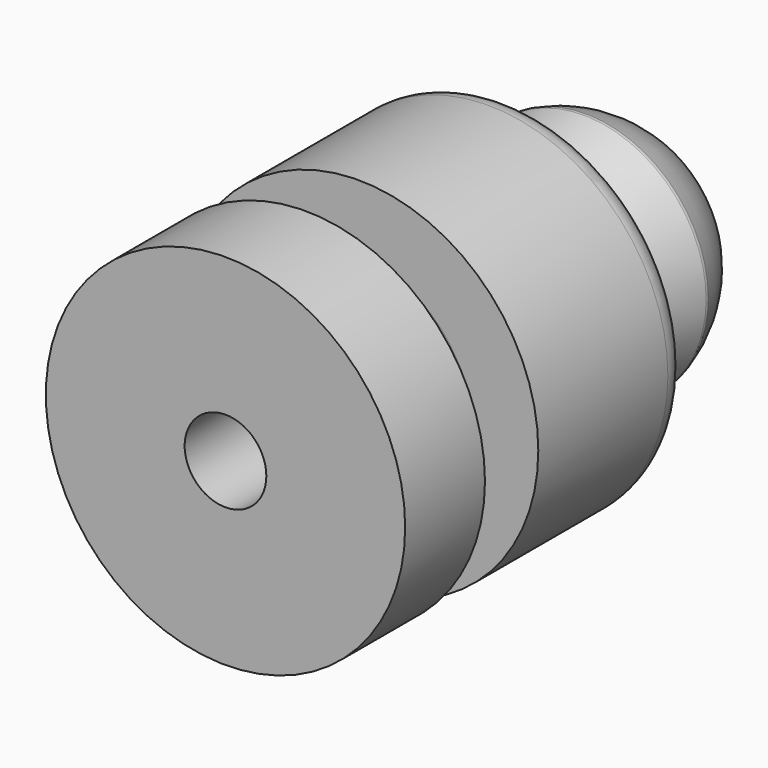
from build123d import *

# Parameters (mm, degrees)
F2_R     = 5
F3_R     = 2
F4_R     = 7.5
F5_DEPTH = 120
F6_R     = 1


with BuildPart() as f1:
    # F0 (on Top) → F1 (revolve)
    with BuildSketch(Plane.XY):
        with BuildLine():
            Line((0, 100), (0, 0))
            Line((0, 0), (33, 0))
            Line((33, 0), (33, 18.31956))
            Line((33, 18.31956), (20.559253, 18.31956))
            ThreePointArc((20.559253, 18.31956), (14.437617, 24.441197), (20.559253, 30.562833))
            Line((20.559253, 30.562833), (33, 30.562833))
            Line((33, 30.562833), (33, 65.317936))
            Line((33, 65.317936), (18, 65.317936))
            Line((18, 65.317936), (22.589619, 82.446628))
            ThreePointArc((22.589619, 82.446628), (14.303948, 95.095807), (0, 100))
        make_face()
    revolve(axis=Axis((0, 50, 0), (0, -1, 0)))

    # F2
    f2_edges = [f1.edges().sort_by_distance(p)[0] for p in [
        (-33, 65.317936, 0),
    ]]
    fillet(f2_edges, radius=F2_R)

    # F3
    f3_edges = [f1.edges().sort_by_distance(p)[0] for p in [
        (-18, 65.317936, 0),
    ]]
    fillet(f3_edges, radius=F3_R)

    # F4 (on face) → F5 (cut)
    with BuildSketch(Plane.XZ):
        Circle(F4_R)
    extrude(amount=-F5_DEPTH, mode=Mode.SUBTRACT)

    # F6
    f6_edges = [f1.edges().sort_by_distance(p)[0] for p in [
        (-22.589619, 82.446628, 0),
    ]]
    fillet(f6_edges, radius=F6_R)


solid = f1.part
